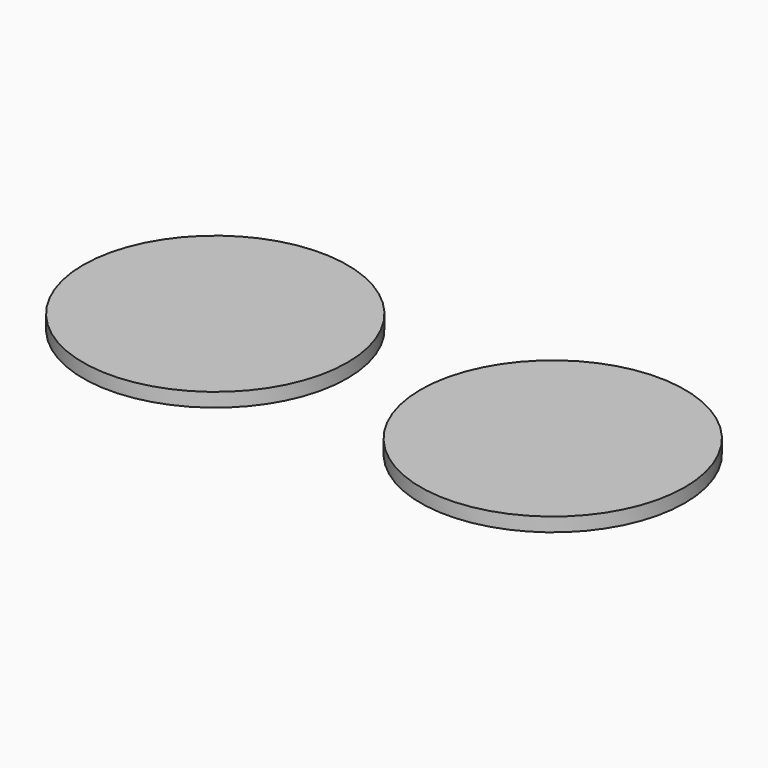
from build123d import *

# Parameters (mm, degrees)
F0_R     = 30.1625
F1_DEPTH = 3.175


with BuildPart() as f1:
    # F0 (on Top) → F1 (new body)
    with BuildSketch(Plane.XY):
        with Locations((-77.041171, 0)):
            Circle(F0_R)
        Circle(F0_R)
    extrude(amount=F1_DEPTH)


solid = f1.part
